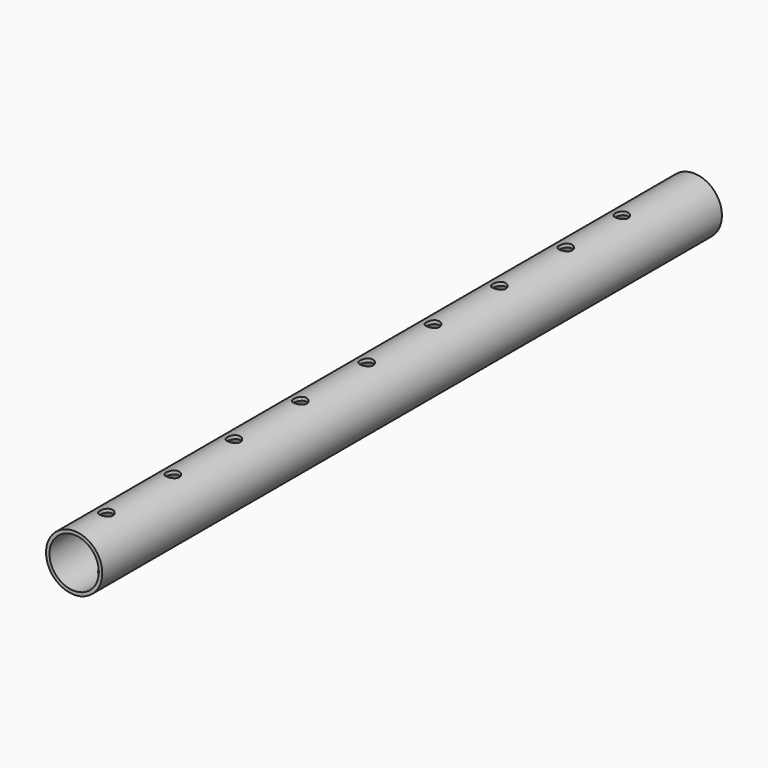
from build123d import *

# Parameters (mm, degrees)
F0_W     = 19.509388
F0_H     = 225.251913
F0_R     = 1.905
F2_DEPTH = 12.7
F1_R     = 8.1788
F1_R_2   = 7.17925
F3_DEPTH = 248.666


with BuildPart() as f2:
    # F0 (on Top) → F2 (new body, symmetric)
    with BuildSketch(Plane.XY):
        with Locations((-0.322576, -112.625957)):
            Rectangle(F0_W, F0_H)
        with Locations((0, -213.56143)):
            Circle(F0_R, mode=Mode.SUBTRACT)
        with Locations((0, -189.43143)):
            Circle(F0_R, mode=Mode.SUBTRACT)
        with Locations((0, -167.20643)):
            Circle(F0_R, mode=Mode.SUBTRACT)
        with Locations((0, -143.07643)):
            Circle(F0_R, mode=Mode.SUBTRACT)
        with Locations((0, -118.94643)):
            Circle(F0_R, mode=Mode.SUBTRACT)
        with Locations((0, -94.81643)):
            Circle(F0_R, mode=Mode.SUBTRACT)
        with Locations((0, -70.68643)):
            Circle(F0_R, mode=Mode.SUBTRACT)
        with Locations((0, -46.55643)):
            Circle(F0_R, mode=Mode.SUBTRACT)
        with Locations((0, -26.23643)):
            Circle(F0_R, mode=Mode.SUBTRACT)
    extrude(amount=F2_DEPTH, both=True)

    # F1 (on Front) → F3 (intersect, symmetric)
    with BuildSketch(Plane.XZ):
        Circle(F1_R)
        Circle(F1_R_2, mode=Mode.SUBTRACT)
    extrude(amount=F3_DEPTH, both=True, mode=Mode.INTERSECT)


solid = f2.part
